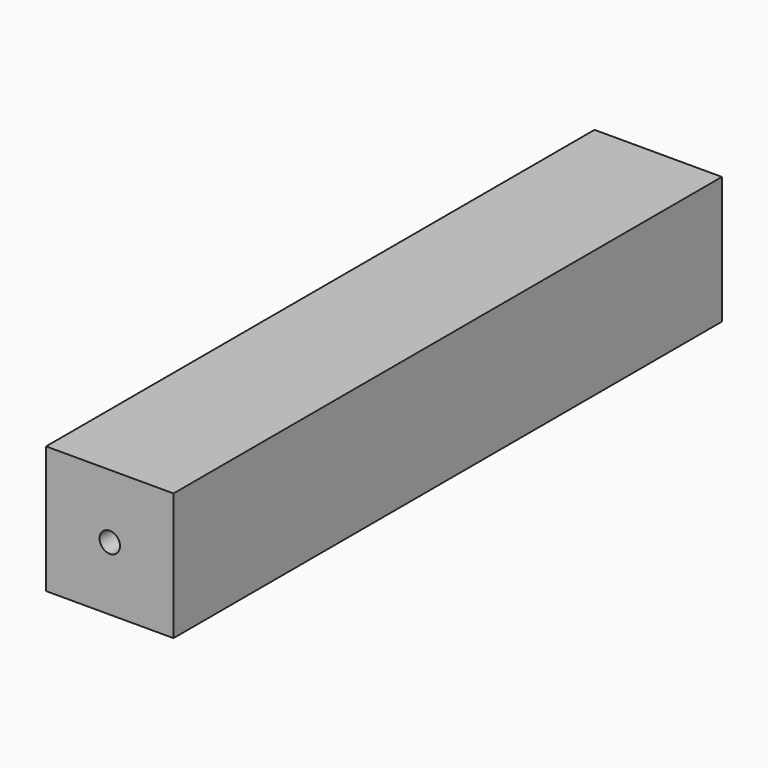
from build123d import *

# Parameters (mm, degrees)
F1_DEPTH = 250
F2_W     = 50
F2_H     = 50
F2_R     = 4
F3_DEPTH = 9.5
F4_W     = 50
F4_H     = 50
F4_R     = 4
F5_DEPTH = 9.5


with BuildPart() as f1:
    # F0 (on Front) → F1 (new body)
    with BuildSketch(Plane.XZ):
        Polygon((25, -25), (25, 0), (25, 25), (-25, 25), (-25, -25), align=None)
        Polygon((20, -20), (0, -20), (-20, -20), (-20, 20), (20, 20), align=None, mode=Mode.SUBTRACT)
    extrude(amount=F1_DEPTH)

    # F2 (on face) → F3 (join)
    with BuildSketch(Plane.XZ.offset(250)):
        Rectangle(F2_W, F2_H)
        Circle(F2_R, mode=Mode.SUBTRACT)
    extrude(amount=F3_DEPTH)

    # F4 (on face) → F5 (join)
    with BuildSketch(Plane.XZ):
        Rectangle(F4_W, F4_H)
        Circle(F4_R, mode=Mode.SUBTRACT)
    extrude(amount=-F5_DEPTH)


solid = f1.part
